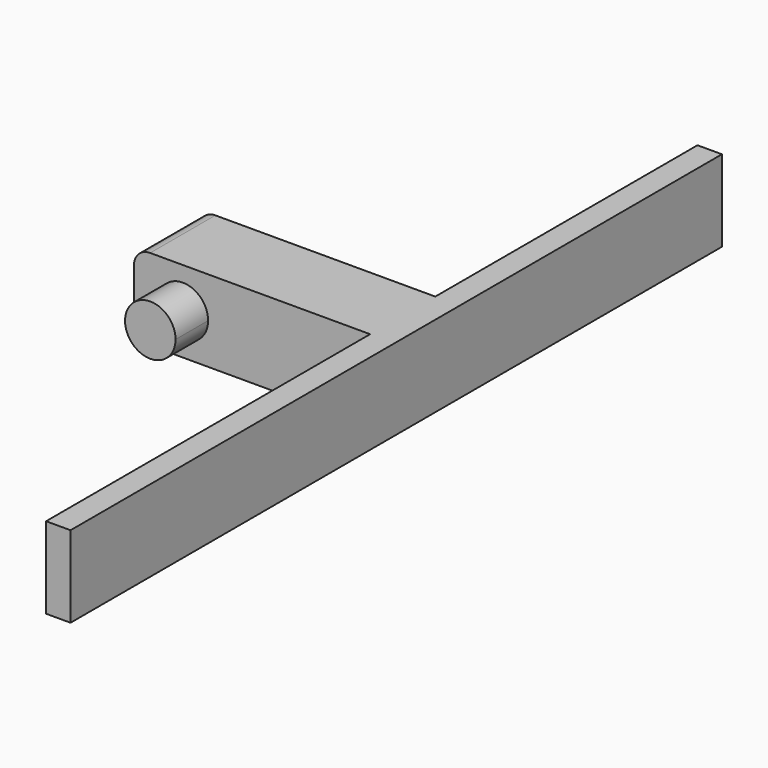
from build123d import *

# Parameters (mm, degrees)
F1_DEPTH = 1.27
F2_W     = 25.3899591044
F2_H     = 2.54
F3_DEPTH = 0.762
F4_DEPTH = 2.54
F5_DEPTH = 25.4


with BuildPart() as f1:
    # F0 (on Front) → F1 (new body, symmetric)
    with BuildSketch(Plane.XZ):
        with BuildLine():
            ThreePointArc((0, 0.508), (0.1487897552, 0.1487897552), (0.508, 0))
            Line((0.508, 0), (8.128, 0))
            Line((8.128, 0), (8.128, 2.54))
            Line((8.128, 2.54), (0.508, 2.54))
            ThreePointArc((0.508, 2.54), (0.1487897552, 2.3912102448), (0, 2.032))
            Line((0, 2.032), (0, 1.27))
            Line((0, 1.27), (0, 0.508))
        make_face()
        with BuildLine():
            ThreePointArc((2.3151677185, 1.27), (1.5279400395, 0.4827723211), (0.7407123606, 1.27))
            ThreePointArc((0.7407123606, 1.27), (1.5279400395, 2.0572276789), (2.3151677185, 1.27))
        make_face(mode=Mode.SUBTRACT)
        with BuildLine():
            ThreePointArc((2.3151677185, 1.27), (1.5279400395, 2.0572276789), (0.7407123606, 1.27))
            Line((0.7407123606, 1.27), (2.3151677185, 1.27))
        make_face()
        with BuildLine():
            Line((2.3151677185, 1.27), (0.7407123606, 1.27))
            ThreePointArc((0.7407123606, 1.27), (1.5279400395, 0.4827723211), (2.3151677185, 1.27))
        make_face()
    extrude(amount=F1_DEPTH, both=True)

    # F2 (on face) → F3 (join)
    with BuildSketch(Plane.YZ.offset(8.128)):
        with Locations((-1.2046988122, 1.27)):
            Rectangle(F2_W, F2_H)
    extrude(amount=-F3_DEPTH)

    # F0 (on Front) → F4 (join)
    with BuildSketch(Plane.XZ):
        with BuildLine():
            ThreePointArc((2.3151677185, 1.27), (1.5279400395, 2.0572276789), (0.7407123606, 1.27))
            Line((0.7407123606, 1.27), (2.3151677185, 1.27))
        make_face()
        with BuildLine():
            Line((2.3151677185, 1.27), (0.7407123606, 1.27))
            ThreePointArc((0.7407123606, 1.27), (1.5279400395, 0.4827723211), (2.3151677185, 1.27))
        make_face()
    extrude(amount=F4_DEPTH)

    # F0 (on Front) → F5 (cut)
    with BuildSketch(Plane.XZ):
        with BuildLine():
            ThreePointArc((2.3151677185, 1.27), (1.5279400395, 2.0572276789), (0.7407123606, 1.27))
            Line((0.7407123606, 1.27), (2.3151677185, 1.27))
        make_face()
        with BuildLine():
            Line((2.3151677185, 1.27), (0.7407123606, 1.27))
            ThreePointArc((0.7407123606, 1.27), (1.5279400395, 0.4827723211), (2.3151677185, 1.27))
        make_face()
    extrude(amount=-F5_DEPTH, mode=Mode.SUBTRACT)


solid = f1.part
